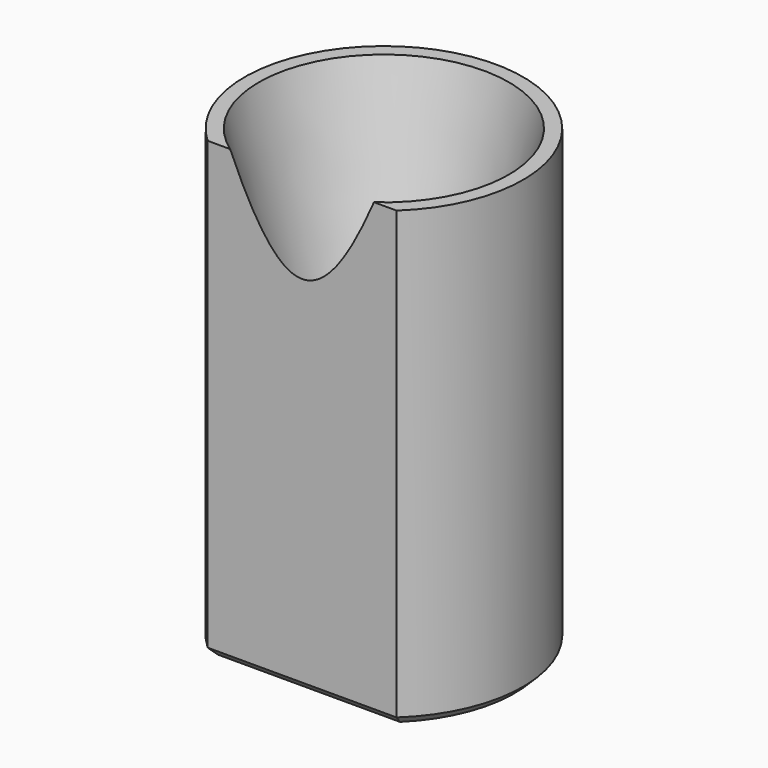
from build123d import *

# Parameters (mm, degrees)
SKETCH012_W     = 4.485072
SKETCH012_H     = 0.815651
POCKET003_DEPTH = 8.001
CHAMFER003_SIZE = 0.15


with BuildPart() as part:
    # Sketch011 → Revolution001 (revolve)
    with BuildSketch(Plane.XZ):
        Polygon((-1.45, 0), (-1.45, 5), (-2.2, 8), (-2.45, 8), (-2.45, 0), align=None)
    revolve(axis=Axis((0, 0, 0), (0, 0, 1)))

    # Sketch012 (on Face5 of Revolution001) → Pocket003 (cut, through all)
    with BuildSketch(Plane(origin=(0, 0, 0), x_dir=(1, 0, 0), z_dir=(0, 0, -1))):
        with Locations((0.20817, 2.2078255)):
            Rectangle(SKETCH012_W, SKETCH012_H)
    extrude(amount=-POCKET003_DEPTH, mode=Mode.SUBTRACT)

    # Chamfer003
    chamfer003_edges = [part.edges().sort_by_distance(p)[0] for p in [
        (-2.244392, -0.982449, 0),
        (0, -1.8, 0),
        (0.982449, 2.244392, 0),
        (1.45, 0, 0),
    ]]
    chamfer(chamfer003_edges, length=CHAMFER003_SIZE)


solid = part.part
